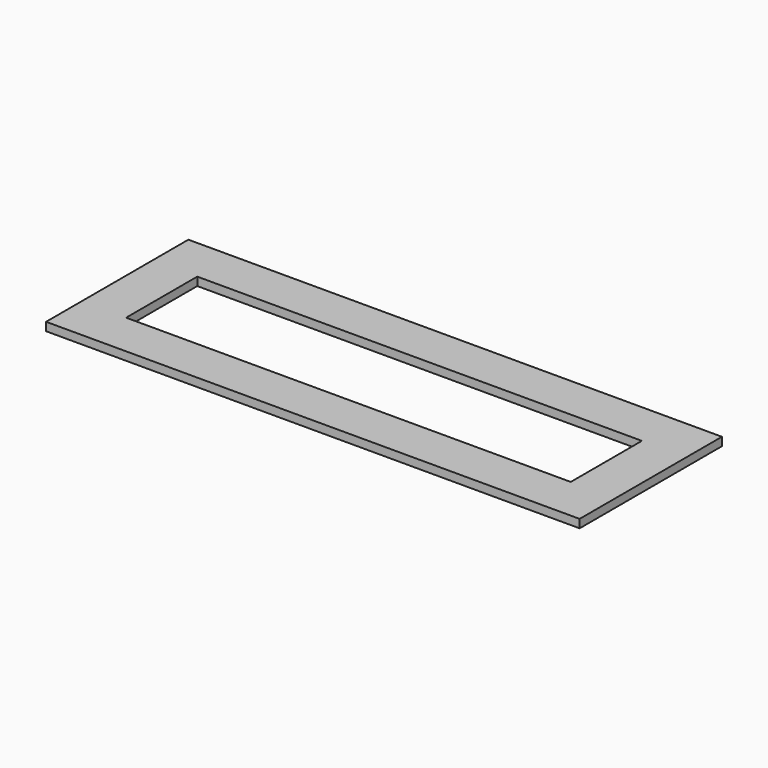
from build123d import *

# Parameters (mm, degrees)
F0_W     = 304.8
F0_H     = 101.6
F0_W_2   = 254
F0_H_2   = 50.8
F1_DEPTH = 2.38125


with BuildPart() as f1:
    # F0 (on Top) → F1 (new body, symmetric)
    with BuildSketch(Plane.XY):
        with Locations((152.4, 50.8)):
            Rectangle(F0_W, F0_H)
        with Locations((152.4, 50.8)):
            Rectangle(F0_W_2, F0_H_2, mode=Mode.SUBTRACT)
    extrude(amount=F1_DEPTH, both=True)


solid = f1.part
